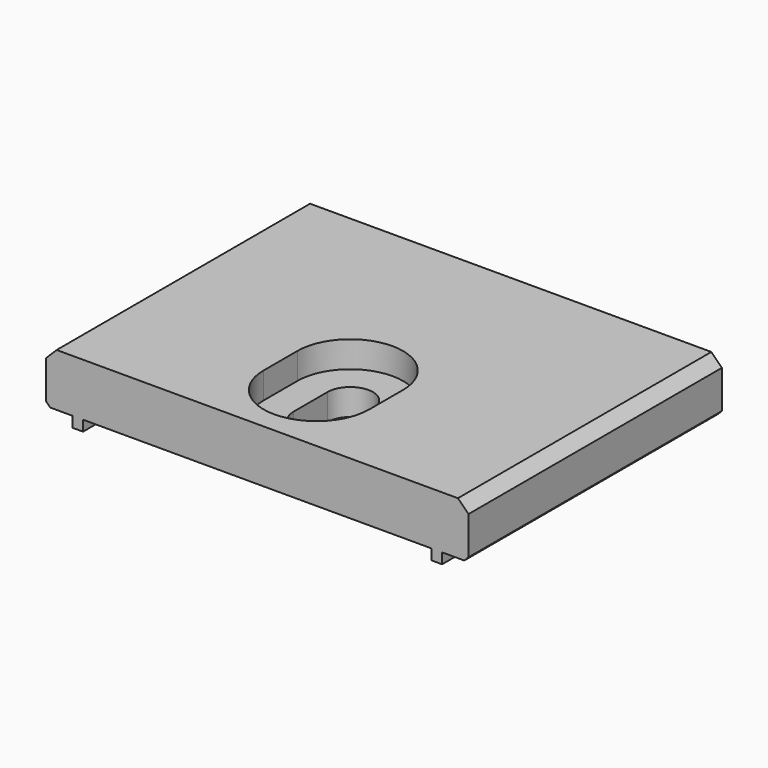
from build123d import *

# Parameters (mm, degrees)
CYLINDER006_R      = 2.15
CYLINDER006_DEPTH  = 10
CYLINDER005_R      = 2.15
CYLINDER005_DEPTH  = 10
BOX012_W           = 4.3
BOX012_H           = 4
BOX012_DEPTH       = 10
CYLINDER008_R      = 5
CYLINDER008_DEPTH  = 10
BOX013_W           = 10
BOX013_H           = 4
BOX013_DEPTH       = 10
CYLINDER007_R      = 5
CYLINDER007_DEPTH  = 10
BOX010_W           = 1
BOX010_H           = 16
BOX010_DEPTH       = 2
BOX009_W           = 40
BOX009_H           = 30
BOX009_DEPTH       = 5
BOX011_W           = 1
BOX011_H           = 16
BOX011_DEPTH       = 2
CHAMFER003002_SIZE = 1
CHAMFER003003_SIZE = 0.4


with BuildPart() as cylinder006:
    # Cylinder006 → Cylinder006 (new body)
    with BuildSketch(Plane(origin=(0, -8, 0), x_dir=(1, 0, 0), z_dir=(0, 0, 1))):
        Circle(CYLINDER006_R)
    extrude(amount=CYLINDER006_DEPTH)


with BuildPart() as cylinder005:
    # Cylinder005 → Cylinder005 (new body)
    with BuildSketch(Plane(origin=(0, -4, 0), x_dir=(1, 0, 0), z_dir=(0, 0, 1))):
        Circle(CYLINDER005_R)
    extrude(amount=CYLINDER005_DEPTH)


with BuildPart() as fusion009003:
    # Box012 → Box012 (new body)
    with BuildSketch(Plane(origin=(-2.15, -8, 0), x_dir=(1, 0, 0), z_dir=(0, 0, 1))):
        with Locations((2.15, 2)):
            Rectangle(BOX012_W, BOX012_H)
    extrude(amount=BOX012_DEPTH)

    # Fusion009003: union Cylinder006, Cylinder005
    add(cylinder006.part)
    add(cylinder005.part)


with BuildPart() as cylinder008:
    # Cylinder008 → Cylinder008 (new body)
    with BuildSketch(Plane(origin=(0, -8, 0), x_dir=(1, 0, 0), z_dir=(0, 0, 1))):
        Circle(CYLINDER008_R)
    extrude(amount=CYLINDER008_DEPTH)


with BuildPart() as cube013:
    # Box013 → Box013 (new body)
    with BuildSketch(Plane(origin=(-5, -8, 0), x_dir=(1, 0, 0), z_dir=(0, 0, 1))):
        with Locations((5, 2)):
            Rectangle(BOX013_W, BOX013_H)
    extrude(amount=BOX013_DEPTH)


with BuildPart() as fusion009005:
    # Cylinder007 → Cylinder007 (new body)
    with BuildSketch(Plane(origin=(0, -4, 0), x_dir=(1, 0, 0), z_dir=(0, 0, 1))):
        Circle(CYLINDER007_R)
    extrude(amount=CYLINDER007_DEPTH)

    # Fusion009004: union Cylinder008, Cube013
    add(cylinder008.part)
    add(cube013.part)


with BuildPart() as fusion009005_1:
    # Fusion009004 placement: moved
    add(fusion009005.part.moved(Location((0, 0, 10))))

    # Fusion009005: union Fusion009003
    add(fusion009003.part)


with BuildPart() as fusion009005_2:
    # Fusion009005 placement: moved
    add(fusion009005_1.part.moved(Location((0, 0, 17.5))))


with BuildPart() as cube010:
    # Box010 → Box010 (new body)
    with BuildSketch(Plane(origin=(-17.5, -15, 24), x_dir=(1, 0, 0), z_dir=(0, 0, 1))):
        with Locations((0.5, 8)):
            Rectangle(BOX010_W, BOX010_H)
    extrude(amount=BOX010_DEPTH)


with BuildPart() as cube009:
    # Box009 → Box009 (new body)
    with BuildSketch(Plane(origin=(-20, -15, 25), x_dir=(1, 0, 0), z_dir=(0, 0, 1))):
        with Locations((20, 15)):
            Rectangle(BOX009_W, BOX009_H)
    extrude(amount=BOX009_DEPTH)


with BuildPart() as cut006:
    # Box011 → Box011 (new body)
    with BuildSketch(Plane(origin=(16.5, -15, 24), x_dir=(1, 0, 0), z_dir=(0, 0, 1))):
        with Locations((0.5, 8)):
            Rectangle(BOX011_W, BOX011_H)
    extrude(amount=BOX011_DEPTH)

    # Fusion009002: union Cube010, Cube009
    add(cube010.part)
    add(cube009.part)

    # Chamfer003002
    chamfer003002_edges = [cut006.edges().sort_by_distance(p)[0] for p in [
        (20, 0, 30),
        (-20, 0, 30),
    ]]
    chamfer(chamfer003002_edges, length=CHAMFER003002_SIZE)

    # Chamfer003003
    chamfer003003_edges = [cut006.edges().sort_by_distance(p)[0] for p in [
        (20, 0, 25),
        (-20, 0, 25),
    ]]
    chamfer(chamfer003003_edges, length=CHAMFER003003_SIZE)

    # Cut006: cut Fusion009005
    add(fusion009005_2.part, mode=Mode.SUBTRACT)


solid = cut006.part
